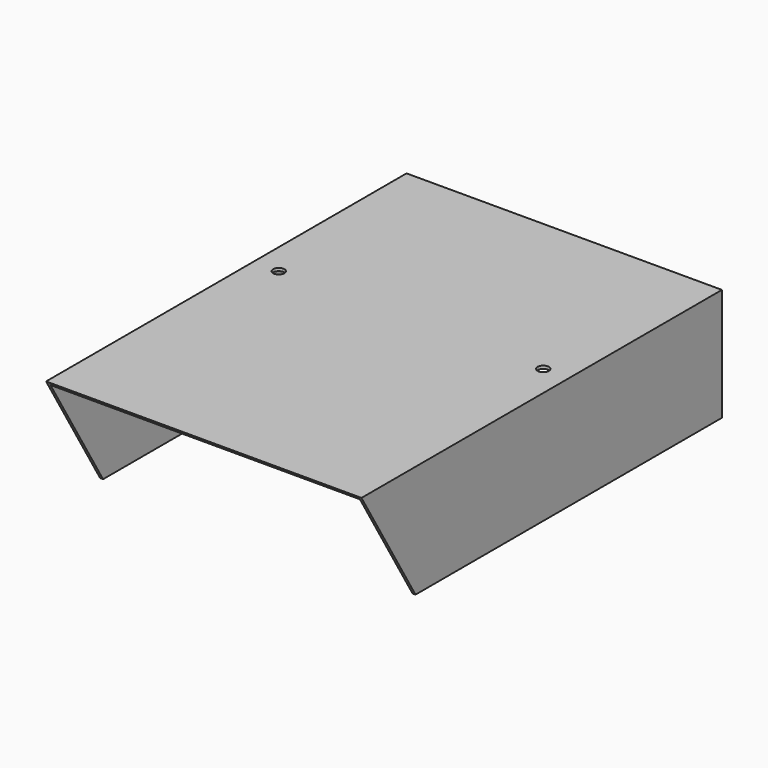
from build123d import *

# Parameters (mm, degrees)
F2_DEPTH      = 215.9
F3_DEPTH      = 76.2
F5_DEPTH      = 375.92
F5_DEPTH_BACK = 25.4
F6_W          = 2.794
F6_H          = 88.9
F7_DEPTH      = 348.996
F8_W          = 32.20243752
F8_H          = 2.794
F9_DEPTH      = 348.996
F10_W         = 254
F10_H         = 32.20243752
F11_DEPTH     = 25.4
F12_R         = 3.175
F13_DEPTH     = 25.4
F15_DEPTH     = 25.4
F16_R         = 6.35
F17_DEPTH     = 25.4


with BuildPart() as f2:
    # F1 (on Front) → F2 (new body, symmetric)
    with BuildSketch(Plane.XZ):
        Polygon((177.8, 63.5), (-177.8, 63.5), (-177.8, -63.5), (-174.498, -63.5), (-174.498, 60.198), (174.498, 60.198), (174.498, -63.5), (177.8, -63.5), align=None)
    extrude(amount=F2_DEPTH, both=True)

    # F3 (add): a face of the model
    f3_faces = [f2.faces().sort_by_distance(p)[0] for p in [
        (176.149, -215.9, -59.7240185382),
    ]]
    extrude(f3_faces, amount=F3_DEPTH)

    # F4 (on face) → F5 (cut, two sides)
    with BuildSketch(Plane.YZ.offset(177.8)) as f5_sk:
        Polygon((-292.1, -63.5), (-215.9, -63.5), (-292.1, 63.5), align=None)
    extrude(amount=-F5_DEPTH, mode=Mode.SUBTRACT)
    extrude(f5_sk.sketch, amount=F5_DEPTH_BACK, mode=Mode.SUBTRACT)

    # F6 (on face) → F7 (join, through all)
    with BuildSketch(Plane.YZ.offset(-174.498)):
        with Locations((214.503, 15.748)):
            Rectangle(F6_W, F6_H)
    extrude(amount=F7_DEPTH)

    # F8 (on face) → F9 (join, through all)
    with BuildSketch(Plane(origin=(174.498, 0, 0), x_dir=(0, -1, 0), z_dir=(-1, 0, 0))):
        with Locations((0, -62.103)):
            Rectangle(F8_W, F8_H)
    extrude(amount=F9_DEPTH)

    # F10 (on face) → F11 (cut)
    with BuildSketch(Plane(origin=(0, 0, -63.5), x_dir=(1, 0, 0), z_dir=(0, 0, -1))):
        Rectangle(F10_W, F10_H)
    extrude(amount=-F11_DEPTH, mode=Mode.SUBTRACT)

    # F12 (on face) → F13 (cut)
    with BuildSketch(Plane(origin=(0, 0, -63.5), x_dir=(1, 0, 0), z_dir=(0, 0, -1))):
        with Locations((149.098, 0)):
            Circle(F12_R)
    extrude(amount=-F13_DEPTH, mode=Mode.SUBTRACT)

    # F14 (on face) → F15 (cut)
    with BuildSketch(Plane(origin=(0, 0, -63.5), x_dir=(1, 0, 0), z_dir=(0, 0, -1))):
        with BuildLine():
            ThreePointArc((-152.273, 0), (-149.098, -3.175), (-145.923, 0))
            ThreePointArc((-145.923, 0), (-149.098, 3.175), (-152.273, 0))
        make_face()
    extrude(amount=-F15_DEPTH, mode=Mode.SUBTRACT)

    # F16 (on face) → F17 (cut)
    with BuildSketch(Plane(origin=(0, 0, 60.198), x_dir=(1, 0, 0), z_dir=(0, 0, -1))):
        with Locations((149.098, 0)):
            Circle(F16_R)
        with Locations((-149.098, 0)):
            Circle(F16_R)
    extrude(amount=-F17_DEPTH, mode=Mode.SUBTRACT)


solid = f2.part
